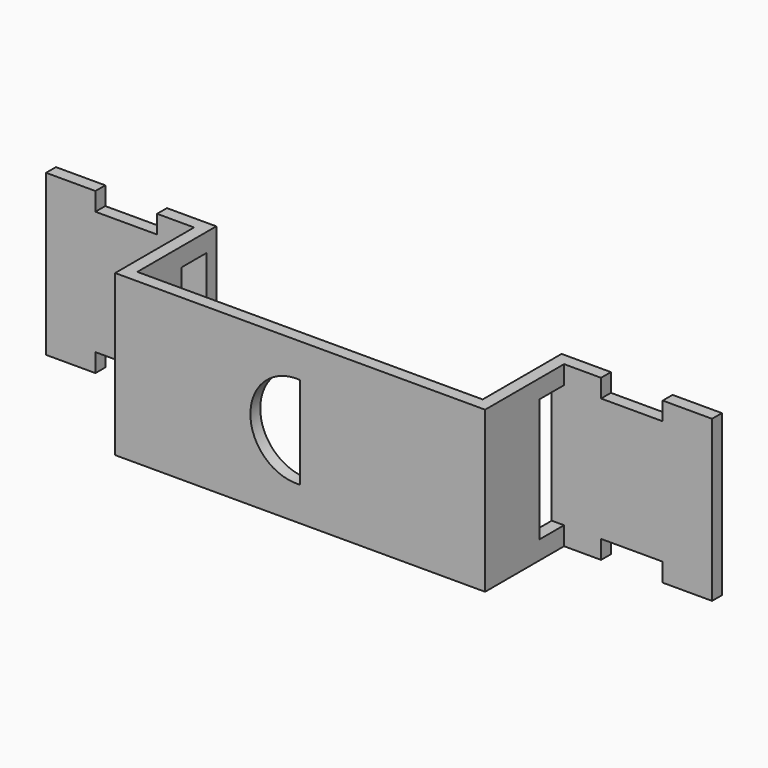
from build123d import *

# Parameters (mm, degrees)
PAD_DEPTH       = 26
SKETCH002_W     = 5
SKETCH002_H     = 20
POCKET_DEPTH    = 155.156903
SKETCH004_W     = 10
SKETCH004_H     = 3
POCKET001_DEPTH = 5
SKETCH005_R     = 7.5
POCKET002_DEPTH = 5


with BuildPart() as part:
    # Sketch → Pad (new body)
    with BuildSketch(Plane.XY):
        Polygon((-54, 0), (-28, 0), (-28, -16), (0, -16), (0, -18), (-30, -18), (-30, -2), (-54, -2), align=None)
    pad = extrude(amount=PAD_DEPTH)

    # Sketch002 (on DatumPlane) → Pocket (cut, through all)
    with BuildSketch(Plane(origin=(-30, 0, 0), x_dir=(0, -1, 0), z_dir=(-1, 0, 0))):
        with Locations((4.5, 13)):
            Rectangle(SKETCH002_W, SKETCH002_H)
    pocket = extrude(amount=-POCKET_DEPTH, mode=Mode.SUBTRACT)

    # Sketch004 (on DatumPlane) → Pocket001 (cut)
    with BuildSketch(Plane.XZ.offset(2)):
        with Locations((-41, 24.53954)):
            Rectangle(SKETCH004_W, SKETCH004_H)
        with Locations((-41, 1.5)):
            Rectangle(SKETCH004_W, SKETCH004_H)
    pocket001 = extrude(amount=-POCKET001_DEPTH, mode=Mode.SUBTRACT)

    # Sketch005 (on DatumPlane) → Pocket002 (cut)
    with BuildSketch(Plane.XZ.offset(18)):
        with Locations((-0.570245, 13)):
            Circle(SKETCH005_R)
    extrude(amount=-POCKET002_DEPTH, mode=Mode.SUBTRACT)

    # Mirrored: Pad across Sketch V_Axis
    add(pad.mirror(Plane(origin=(0, 0, 0), x_dir=(0, 0, 1), z_dir=(1, 0, 0))))

    # Mirrored001: Pocket across YZ
    add(pocket.mirror(Plane.YZ), mode=Mode.SUBTRACT)

    # Mirrored002: Pocket001 across Sketch004 V_Axis
    add(pocket001.mirror(Plane(origin=(0, -2, 0), x_dir=(0, -1, 0), z_dir=(1, 0, 0))), mode=Mode.SUBTRACT)


solid = part.part
